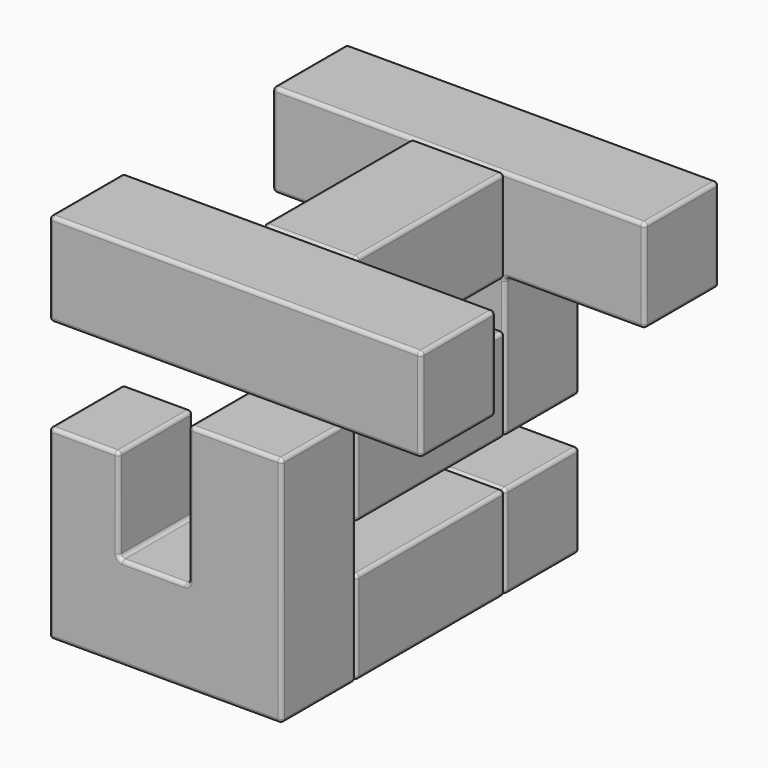
from build123d import *

# Parameters (mm, degrees)
F1_W     = 25.4
F1_H     = 6.35
F2_DEPTH = 6.35
F3_W     = 15.875
F3_H     = 6.35
F4_DEPTH = 6.35
F5_W     = 12.7
F5_H     = 6.35
F6_DEPTH = 6.35
F8_R     = 0.254
F8_2_R   = 0.254
F8_3_R   = 0.254
F8_4_R   = 0.254
F8_5_R   = 0.254


with BuildPart() as f2:
    # F1 (on offset) → F2 (new body)
    with BuildSketch(Plane.XZ.offset(25.4)):
        Polygon((0, 12.7), (0, 0), (15.875, 0), (15.875, 15.875), (9.525, 15.875), (9.525, 6.3202516176), (4.7625, 6.3202516176), (4.7625, 12.7), align=None)
        with Locations((12.7, 22.225)):
            Rectangle(F1_W, F1_H)
    extrude(amount=-F2_DEPTH)

    # F8
    f8_edges = [f2.edges().sort_by_distance(p)[0] for p in [
        (25.4, -22.225, 25.4),
        (0, -22.225, 25.4),
        (12.7, -25.4, 25.4),
        (12.7, -19.05, 25.4),
        (0, -25.4, 22.225),
        (12.7, -25.4, 19.05),
        (25.4, -25.4, 22.225),
        (0, -19.05, 22.225),
        (12.7, -19.05, 19.05),
        (25.4, -19.05, 22.225),
        (0, -22.225, 19.05),
        (25.4, -22.225, 19.05),
        (0, -19.05, 6.35),
        (7.9375, -19.05, 0),
        (15.875, -19.05, 7.9375),
        (12.7, -19.05, 15.875),
        (9.525, -19.05, 11.097626),
        (7.14375, -19.05, 6.320252),
        (4.7625, -19.05, 9.510126),
        (2.38125, -19.05, 12.7),
        (0, -25.4, 6.35),
        (7.9375, -25.4, 0),
        (15.875, -25.4, 7.9375),
        (12.7, -25.4, 15.875),
        (9.525, -25.4, 11.097626),
        (7.14375, -25.4, 6.320252),
        (4.7625, -25.4, 9.510126),
        (2.38125, -25.4, 12.7),
        (0, -22.225, 0),
        (0, -22.225, 12.7),
        (4.7625, -22.225, 12.7),
        (4.7625, -22.225, 6.320252),
        (15.875, -22.225, 15.875),
        (9.525, -22.225, 15.875),
        (9.525, -22.225, 6.320252),
        (15.875, -22.225, 0),
    ]]
    fillet(f8_edges, radius=F8_R)


with BuildPart() as f4:
    # F3 (on Front) → F4 (new body)
    with BuildSketch(Plane.XZ):
        with Locations((7.9375, 3.175)):
            Rectangle(F3_W, F3_H)
        Polygon((25.4, 25.4), (0, 25.4), (0, 19.05), (9.525, 19.05), (9.525, 9.525), (15.875, 9.525), (15.875, 19.05), (25.4, 19.05), align=None)
    extrude(amount=F4_DEPTH)

    # F8#4
    f8_4_edges = [f4.edges().sort_by_distance(p)[0] for p in [
        (12.7, -6.35, 25.4),
        (0, -6.35, 22.225),
        (4.7625, -6.35, 19.05),
        (9.525, -6.35, 14.2875),
        (12.7, -6.35, 9.525),
        (15.875, -6.35, 14.2875),
        (20.6375, -6.35, 19.05),
        (25.4, -6.35, 22.225),
        (25.4, -3.175, 25.4),
        (0, -3.175, 25.4),
        (12.7, 0, 25.4),
        (0, 0, 22.225),
        (4.7625, 0, 19.05),
        (9.525, 0, 14.2875),
        (12.7, 0, 9.525),
        (15.875, 0, 14.2875),
        (20.6375, 0, 19.05),
        (25.4, 0, 22.225),
        (9.525, -3.175, 19.05),
        (9.525, -3.175, 9.525),
        (0, -3.175, 19.05),
        (15.875, -3.175, 9.525),
        (15.875, -3.175, 19.05),
        (25.4, -3.175, 19.05),
        (0, 0, 3.175),
        (7.9375, 0, 0),
        (15.875, 0, 3.175),
        (7.9375, 0, 6.35),
        (15.875, -3.175, 6.35),
        (0, -3.175, 6.35),
        (7.9375, -6.35, 6.35),
        (0, -3.175, 0),
        (15.875, -3.175, 0),
        (7.9375, -6.35, 0),
        (0, -6.35, 3.175),
        (15.875, -6.35, 3.175),
    ]]
    fillet(f8_4_edges, radius=F8_4_R)


with BuildPart() as f6:
    # F5 (on Right) → F6 (new body)
    with BuildSketch(Plane.YZ):
        with Locations((-12.7, 3.175)):
            Rectangle(F5_W, F5_H)
    extrude(amount=-F6_DEPTH)


with BuildPart() as f6b:
    # F5 (on Right) → F6, piece 2 (new body)
    with BuildSketch(Plane.YZ):
        with Locations((-12.7, 22.225)):
            Rectangle(F5_W, F5_H)
    extrude(amount=-F6_DEPTH)


with BuildPart() as f6c:
    # F5 (on Right) → F6, piece 3 (new body)
    with BuildSketch(Plane.YZ):
        with Locations((-12.7, 12.7)):
            Rectangle(F5_W, F5_H)
    extrude(amount=-F6_DEPTH)


with BuildPart() as f6_1:
    # F7: moved
    add(f6.part.moved(Location((15.875, 0, 0))))

    # F8#5
    f8_5_edges = [f6_1.edges().sort_by_distance(p)[0] for p in [
        (15.875, -6.35, 3.175),
        (12.7, -19.05, 6.35),
        (12.7, -19.05, 0),
        (15.875, -19.05, 3.175),
        (9.525, -19.05, 3.175),
        (9.525, -12.7, 0),
        (9.525, -12.7, 6.35),
        (15.875, -12.7, 0),
        (15.875, -12.7, 6.35),
        (12.7, -6.35, 0),
        (12.7, -6.35, 6.35),
        (9.525, -6.35, 3.175),
    ]]
    fillet(f8_5_edges, radius=F8_5_R)


with BuildPart() as f6b_1:
    # F7: moved
    add(f6b.part.moved(Location((15.875, 0, 0))))

    # F8#2
    f8_2_edges = [f6b_1.edges().sort_by_distance(p)[0] for p in [
        (12.7, -19.05, 25.4),
        (12.7, -19.05, 19.05),
        (12.7, -6.35, 25.4),
        (15.875, -6.35, 22.225),
        (15.875, -12.7, 25.4),
        (15.875, -19.05, 22.225),
        (15.875, -12.7, 19.05),
        (12.7, -6.35, 19.05),
        (9.525, -12.7, 19.05),
        (9.525, -6.35, 22.225),
        (9.525, -12.7, 25.4),
        (9.525, -19.05, 22.225),
    ]]
    fillet(f8_2_edges, radius=F8_2_R)


with BuildPart() as f6c_1:
    # F7: moved
    add(f6c.part.moved(Location((15.875, 0, 0))))

    # F8#3
    f8_3_edges = [f6c_1.edges().sort_by_distance(p)[0] for p in [
        (12.7, -19.05, 15.875),
        (12.7, -6.35, 9.525),
        (12.7, -6.35, 15.875),
        (15.875, -12.7, 15.875),
        (9.525, -12.7, 15.875),
        (15.875, -19.05, 12.7),
        (15.875, -12.7, 9.525),
        (15.875, -6.35, 12.7),
        (12.7, -19.05, 9.525),
        (9.525, -12.7, 9.525),
        (9.525, -19.05, 12.7),
        (9.525, -6.35, 12.7),
    ]]
    fillet(f8_3_edges, radius=F8_3_R)


solid = Compound([f2.part, f4.part, f6_1.part, f6b_1.part, f6c_1.part])
